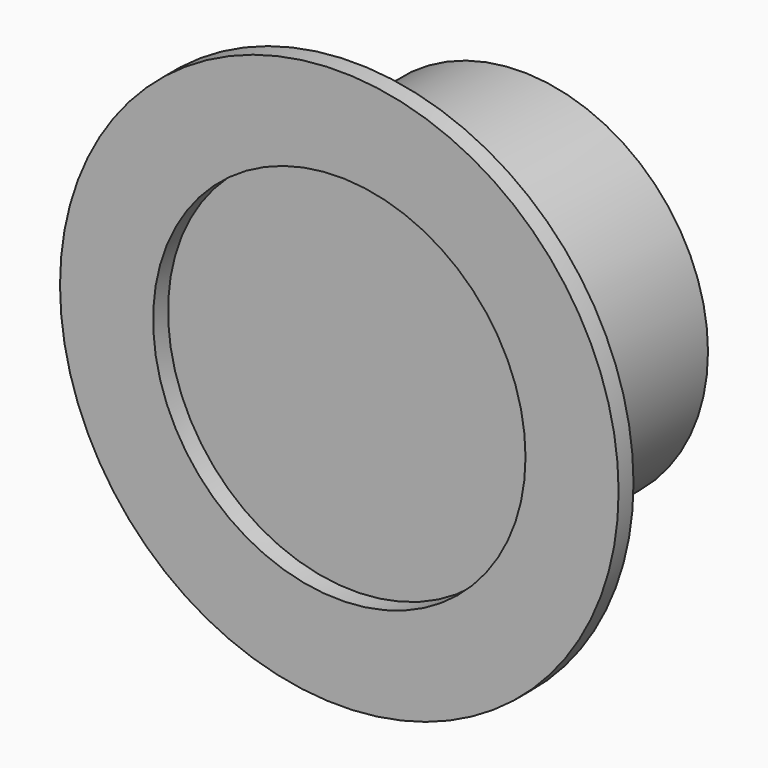
from build123d import *

# Parameters (mm, degrees)
F0_R     = 2.54
F1_DEPTH = 1.42875
F2_R     = 3.81
F2_R_2   = 2.54
F3_DEPTH = 0.254


with BuildPart() as f1:
    # F0 (on Front) → F1 (new body, symmetric)
    with BuildSketch(Plane.XZ):
        Circle(F0_R)
    extrude(amount=F1_DEPTH, both=True)

    # F2 (on face) → F3 (join)
    with BuildSketch(Plane.XZ.offset(1.42875)):
        Circle(F2_R)
        Circle(F2_R_2, mode=Mode.SUBTRACT)
    extrude(amount=F3_DEPTH)


solid = f1.part
